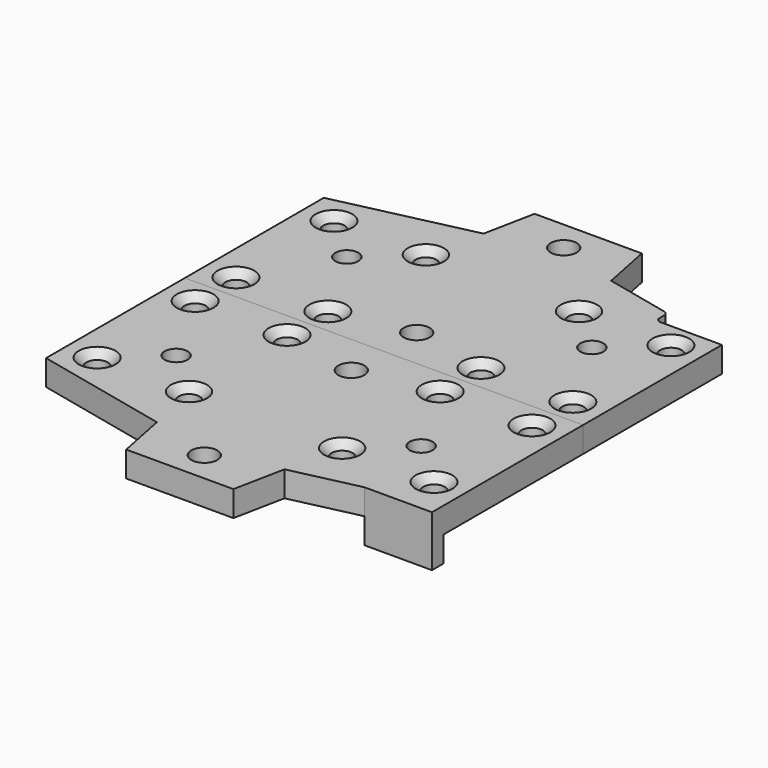
from build123d import *

# Parameters (mm, degrees)
F0_W     = 78
F0_H     = 34
F0_R     = 2.1
F0_R_2   = 2.25
F0_R_3   = 2.55
F0_R_4   = 2.05
F1_DEPTH = 5
F2_SIZE  = 1.5
F5_DEPTH = 5
F6_W     = 13.25
F6_H     = 2.8
F7_DEPTH = 5
F9_DEPTH = 5
F10_R    = 1


with BuildPart() as f1:
    # F0 (on Top) → F1 (new body)
    with BuildSketch(Plane.XY):
        Rectangle(F0_W, F0_H)
        with Locations((-33, -12)):
            Circle(F0_R, mode=Mode.SUBTRACT)
        with Locations((-15, -12)):
            Circle(F0_R, mode=Mode.SUBTRACT)
        with Locations((-24, 3.9)):
            Circle(F0_R_2, mode=Mode.SUBTRACT)
        with Locations((15, -12)):
            Circle(F0_R, mode=Mode.SUBTRACT)
        with Locations((0, -9)):
            Circle(F0_R_3, mode=Mode.SUBTRACT)
        with Locations((33, -12)):
            Circle(F0_R, mode=Mode.SUBTRACT)
        with Locations((24, 3.9)):
            Circle(F0_R_2, mode=Mode.SUBTRACT)
        with Locations((-33, 12)):
            Circle(F0_R, mode=Mode.SUBTRACT)
        with Locations((-15, 12)):
            Circle(F0_R_4, mode=Mode.SUBTRACT)
        with Locations((15, 12)):
            Circle(F0_R_4, mode=Mode.SUBTRACT)
        with Locations((33, 12)):
            Circle(F0_R, mode=Mode.SUBTRACT)
        Polygon((-39, 17), (39, 17), (12.5, 23), (10.5, 33), (-10.5, 33), (-12.5, 23), align=None)
        with Locations((0, 27)):
            Circle(F0_R_3, mode=Mode.SUBTRACT)
    extrude(amount=F1_DEPTH)

    # F2
    f2_edges = [f1.edges().sort_by_distance(p)[0] for p in [
        (-35.1, -12, 5),
        (-35.1, 12, 5),
        (-17.1, -12, 5),
        (-17.05, 12, 5),
        (12.9, -12, 5),
        (30.9, -12, 5),
        (12.95, 12, 5),
        (30.9, 12, 5),
    ]]
    chamfer(f2_edges, length=F2_SIZE)


with BuildPart() as f3_1:
    # F3: instance of F1
    add(f1.part.mirror(Plane(origin=(0, -17, 2.5), x_dir=(1, 0, 0), z_dir=(0, -1, 0))))

    # F4 (on face) → F5 (join, through all)
    with BuildSketch(Plane.XY.offset(5)):
        Polygon((39, -51), (25.75, -54), (39, -54), align=None)
    extrude(amount=-F5_DEPTH)

    # F6 (on face) → F7 (join)
    with BuildSketch(Plane(origin=(0, 0, 0), x_dir=(1, 0, 0), z_dir=(0, 0, -1))):
        with Locations((32.375, 52.6)):
            Rectangle(F6_W, F6_H)
    extrude(amount=F7_DEPTH)


with BuildPart() as f1_1:
    add(f1.part)

    # F8 (on face) → F9 (cut, through all)
    with BuildSketch(Plane.XY.offset(5)):
        Polygon((26, 17), (39, 17), (26, 19.9433962264), align=None)
    extrude(amount=-F9_DEPTH, mode=Mode.SUBTRACT)

    # F10
    f10_edges = [f1_1.edges().sort_by_distance(p)[0] for p in [
        (26, 19.943396, 2.5),
        (26, 17, 2.5),
    ]]
    fillet(f10_edges, radius=F10_R)


solid = Compound([f3_1.part, f1_1.part])
